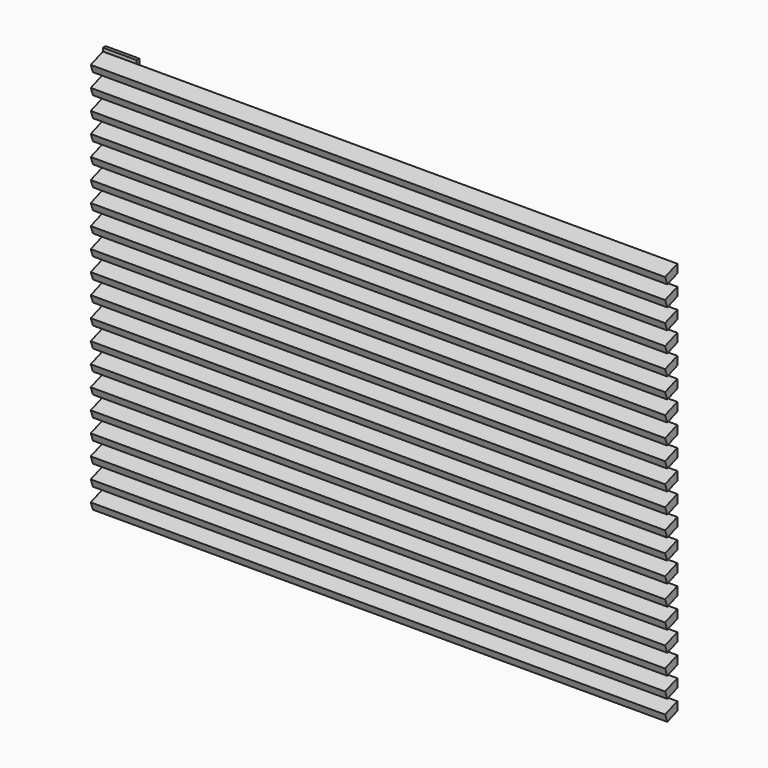
from build123d import *

# Parameters (mm, degrees)
F0_W     = 10
F0_H     = 1200
F1_DEPTH = 100
F3_DEPTH = 1700


with BuildPart() as f1:
    # F0 (on Right) → F1 (new body)
    with BuildSketch(Plane.YZ):
        with Locations((5, 600)):
            Rectangle(F0_W, F0_H)
    extrude(amount=F1_DEPTH)

    # F2 (on Right) → F3 (join)
    with BuildSketch(Plane.YZ):
        Polygon((0, 24.353822), (0, 49.894088), (-45.105246, 33.477121), (-36.896762, 10.924499), align=None)
        Polygon((-45.105245, 93.47712), (-36.896762, 70.924497), (1e-06, 84.35382), (1e-06, 109.894087), align=None)
        Polygon((-45.105244, 153.477119), (-36.896761, 130.924496), (2e-06, 144.353819), (2e-06, 169.894086), align=None)
        Polygon((-45.105243, 213.477117), (-36.89676, 190.924495), (3e-06, 204.353818), (3e-06, 229.894084), align=None)
        Polygon((-45.105242, 273.477116), (-36.896759, 250.924493), (3e-06, 264.353816), (3e-06, 289.894083), align=None)
        Polygon((-45.105241, 393.477113), (-36.896757, 370.924491), (5e-06, 384.353814), (5e-06, 409.89408), align=None)
        Polygon((-45.10524, 453.477112), (-36.896757, 430.924489), (6e-06, 444.353812), (6e-06, 469.894079), align=None)
        Polygon((-45.105242, 333.477115), (-36.896758, 310.924492), (4e-06, 324.353815), (4e-06, 349.894082), align=None)
        Polygon((-45.105239, 513.477111), (-36.896756, 490.924488), (7e-06, 504.353811), (7e-06, 529.894078), align=None)
        Polygon((-45.105237, 633.477108), (-36.896754, 610.924485), (8e-06, 624.353808), (8e-06, 649.894075), align=None)
        Polygon((-45.105238, 573.477109), (-36.896755, 550.924487), (8e-06, 564.35381), (8e-06, 589.894076), align=None)
        Polygon((-45.105237, 693.477107), (-36.896753, 670.924484), (9e-06, 684.353807), (9e-06, 709.894074), align=None)
        Polygon((-45.105236, 753.477105), (-36.896752, 730.924482), (1e-05, 744.353806), (1e-05, 769.894072), align=None)
        Polygon((-45.105233, 933.477101), (-36.89675, 910.924478), (1.3e-05, 924.353802), (1.3e-05, 949.894068), align=None)
        Polygon((-45.105235, 813.477104), (-36.896752, 790.924481), (1.1e-05, 804.353804), (1.1e-05, 829.894071), align=None)
        Polygon((-45.105234, 873.477103), (-36.896751, 850.92448), (1.2e-05, 864.353803), (1.2e-05, 889.89407), align=None)
        Polygon((-45.10523, 1173.477096), (-36.896747, 1150.924473), (1.6e-05, 1164.353796), (1.6e-05, 1189.894063), align=None)
        Polygon((-45.105231, 1113.477097), (-36.896747, 1090.924474), (1.5e-05, 1104.353798), (1.5e-05, 1129.894064), align=None)
        Polygon((-45.105232, 1053.477099), (-36.896748, 1030.924476), (1.4e-05, 1044.353799), (1.4e-05, 1069.894066), align=None)
        Polygon((-45.105232, 993.4771), (-36.896749, 970.924477), (1.3e-05, 984.3538), (1.3e-05, 1009.894067), align=None)
    extrude(amount=F3_DEPTH)


solid = f1.part
